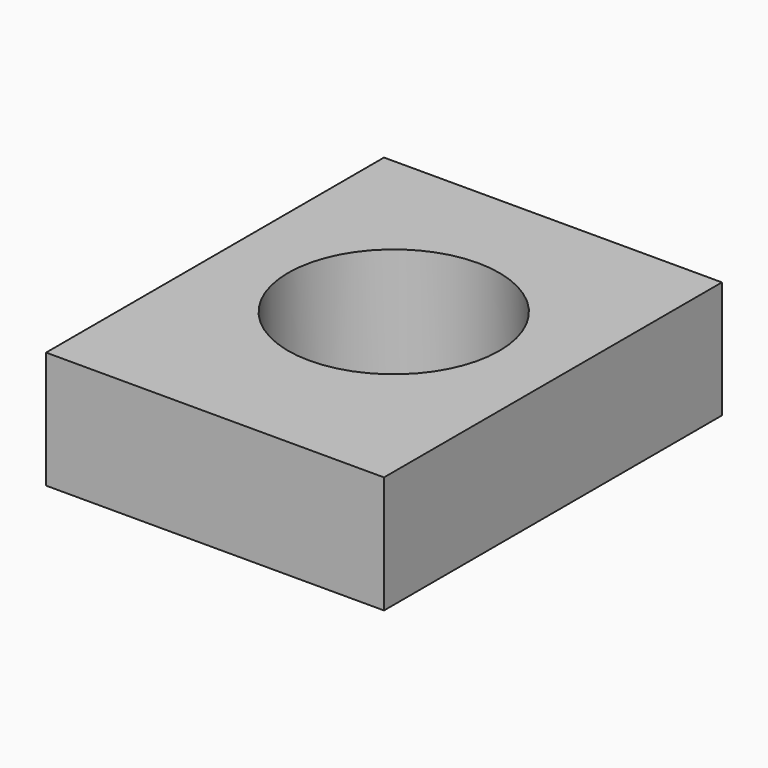
from build123d import *

# Parameters (mm, degrees)
F0_W     = 203.2
F0_H     = 70.452496
F1_DEPTH = 254
F3_D     = 127


with BuildPart() as f1:
    # F0 (on Front) → F1 (new body)
    with BuildSketch(Plane.XZ):
        Rectangle(F0_W, F0_H)
    extrude(amount=F1_DEPTH)

    # F3 (through all)
    with Locations(Plane.XY.offset(35.226248)):
        with Locations((0, -119.666077)):
            Hole(F3_D / 2)


solid = f1.part
